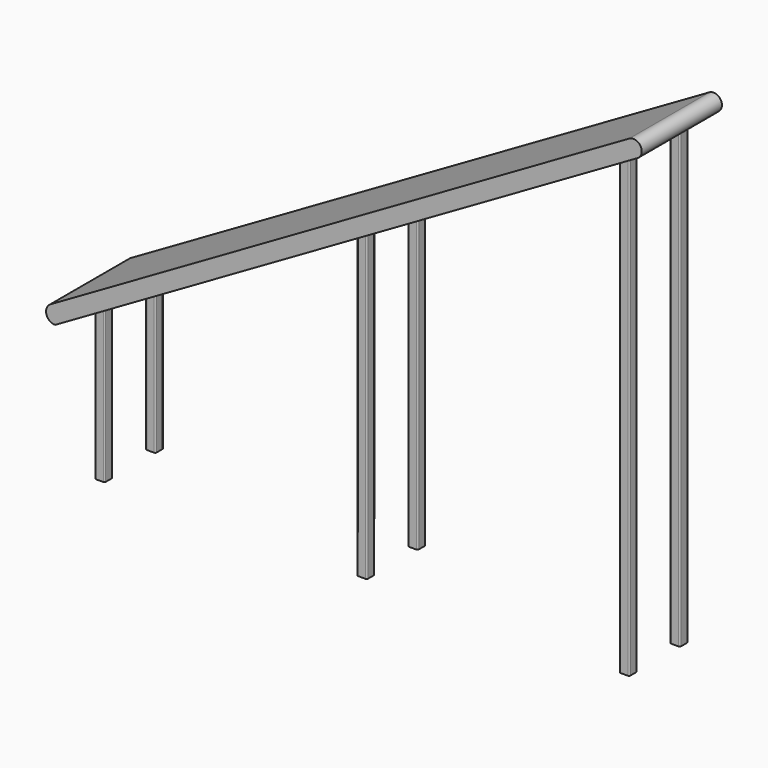
from build123d import *

# Parameters (mm, degrees)
F1_DEPTH = 600


with BuildPart() as f1:
    # F0 (on Front) → F1 (new body)
    with BuildSketch(Plane.XZ):
        with BuildLine():
            ThreePointArc((-3464.1016151378, -2000), (-3488.8647185223, -2060.4298844883), (-3436.6048732973, -2099.5948025345))
            Line((-3436.6048732973, -2099.5948025345), (50, -86.6025403785))
            ThreePointArc((50, -86.6025403785), (68.3012701892, -18.3012701892), (0, 0))
            Line((0, 0), (-3464.1016151378, -2000))
        make_face()
    extrude(amount=F1_DEPTH)

    # F3 (on offset) → F4 (join, up to the next surface of F1)
    with BuildSketch(Plane.XY.offset(-2887)):
        with BuildLine():
            ThreePointArc((-3204.1016151378, -88), (-3206.4447608883, -82.3431457505), (-3212.1016151378, -80))
            Line((-3212.1016151378, -80), (-3256.1016151378, -80))
            ThreePointArc((-3256.1016151378, -80), (-3261.7584693872, -82.3431457505), (-3264.1016151378, -88))
            Line((-3264.1016151378, -88), (-3264.1016151378, -132))
            ThreePointArc((-3264.1016151378, -132), (-3261.7584693872, -137.6568542495), (-3256.1016151378, -140))
            Line((-3256.1016151378, -140), (-3212.1016151378, -140))
            ThreePointArc((-3212.1016151378, -140), (-3206.4447608883, -137.6568542495), (-3204.1016151378, -132))
            Line((-3204.1016151378, -132), (-3204.1016151378, -88))
        make_face()
        with BuildLine():
            ThreePointArc((-3204.1016151378, -468), (-3206.4447608883, -462.3431457505), (-3212.1016151378, -460))
            Line((-3212.1016151378, -460), (-3256.1016151378, -460))
            ThreePointArc((-3256.1016151378, -460), (-3261.7584693872, -462.3431457505), (-3264.1016151378, -468))
            Line((-3264.1016151378, -468), (-3264.1016151378, -512))
            ThreePointArc((-3264.1016151378, -512), (-3261.7584693872, -517.6568542495), (-3256.1016151378, -520))
            Line((-3256.1016151378, -520), (-3212.1016151378, -520))
            ThreePointArc((-3212.1016151378, -520), (-3206.4447608883, -517.6568542495), (-3204.1016151378, -512))
            Line((-3204.1016151378, -512), (-3204.1016151378, -468))
        make_face()
        with BuildLine():
            ThreePointArc((-1634.1016151378, -88), (-1636.4447608883, -82.3431457505), (-1642.1016151378, -80))
            Line((-1642.1016151378, -80), (-1686.1016151378, -80))
            ThreePointArc((-1686.1016151378, -80), (-1691.7584693872, -82.3431457505), (-1694.1016151378, -88))
            Line((-1694.1016151378, -88), (-1694.1016151378, -132))
            ThreePointArc((-1694.1016151378, -132), (-1691.7584693872, -137.6568542495), (-1686.1016151378, -140))
            Line((-1686.1016151378, -140), (-1642.1016151378, -140))
            ThreePointArc((-1642.1016151378, -140), (-1636.4447608883, -137.6568542495), (-1634.1016151378, -132))
            Line((-1634.1016151378, -132), (-1634.1016151378, -88))
        make_face()
        with BuildLine():
            ThreePointArc((-1634.1016151378, -468), (-1636.4447608883, -462.3431457505), (-1642.1016151378, -460))
            Line((-1642.1016151378, -460), (-1686.1016151378, -460))
            ThreePointArc((-1686.1016151378, -460), (-1691.7584693872, -462.3431457505), (-1694.1016151378, -468))
            Line((-1694.1016151378, -468), (-1694.1016151378, -512))
            ThreePointArc((-1694.1016151378, -512), (-1691.7584693872, -517.6568542495), (-1686.1016151378, -520))
            Line((-1686.1016151378, -520), (-1642.1016151378, -520))
            ThreePointArc((-1642.1016151378, -520), (-1636.4447608883, -517.6568542495), (-1634.1016151378, -512))
            Line((-1634.1016151378, -512), (-1634.1016151378, -468))
        make_face()
        with BuildLine():
            ThreePointArc((-64.1016151378, -88), (-66.4447608883, -82.3431457505), (-72.1016151378, -80))
            Line((-72.1016151378, -80), (-116.1016151378, -80))
            ThreePointArc((-116.1016151378, -80), (-121.7584693872, -82.3431457505), (-124.1016151378, -88))
            Line((-124.1016151378, -88), (-124.1016151378, -132))
            ThreePointArc((-124.1016151378, -132), (-121.7584693872, -137.6568542495), (-116.1016151378, -140))
            Line((-116.1016151378, -140), (-72.1016151378, -140))
            ThreePointArc((-72.1016151378, -140), (-66.4447608883, -137.6568542495), (-64.1016151378, -132))
            Line((-64.1016151378, -132), (-64.1016151378, -88))
        make_face()
        with BuildLine():
            ThreePointArc((-64.1016151378, -468), (-66.4447608883, -462.3431457505), (-72.1016151378, -460))
            Line((-72.1016151378, -460), (-116.1016151378, -460))
            ThreePointArc((-116.1016151378, -460), (-121.7584693872, -462.3431457505), (-124.1016151378, -468))
            Line((-124.1016151378, -468), (-124.1016151378, -512))
            ThreePointArc((-124.1016151378, -512), (-121.7584693872, -517.6568542495), (-116.1016151378, -520))
            Line((-116.1016151378, -520), (-72.1016151378, -520))
            ThreePointArc((-72.1016151378, -520), (-66.4447608883, -517.6568542495), (-64.1016151378, -512))
            Line((-64.1016151378, -512), (-64.1016151378, -468))
        make_face()
    extrude(until=Until.NEXT)


solid = f1.part
